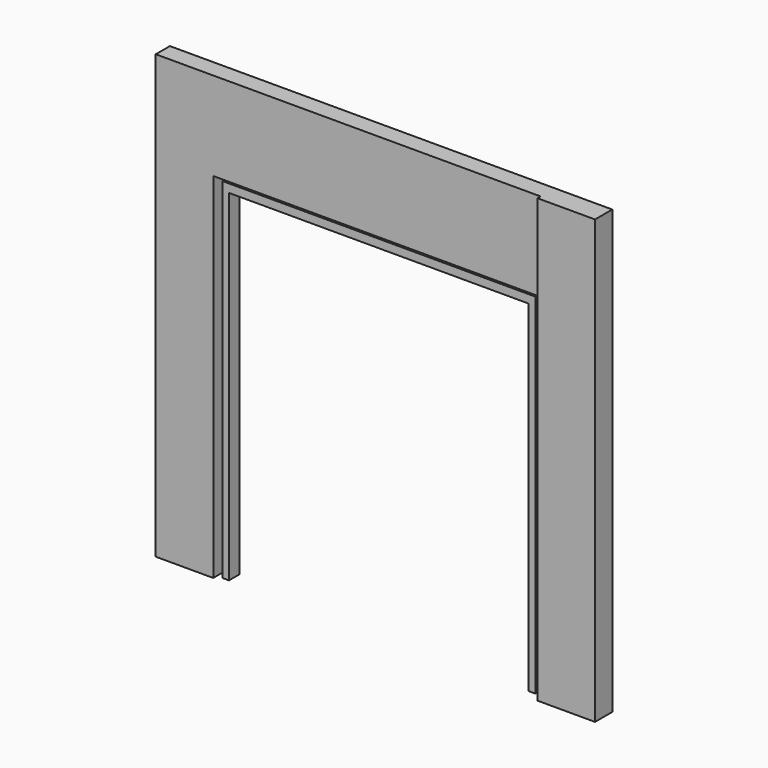
from build123d import *

# Parameters (mm, degrees)
F1_DEPTH = 101.6
F2_W     = 330.2
F2_H     = 2540
F3_DEPTH = 22.225
F5_DEPTH = 76.2


with BuildPart() as f1:
    # F0 (on Front) → F1 (new body)
    with BuildSketch(Plane.XZ):
        Polygon((0, 2540), (0, 0), (330.2, 0), (330.2, 2032), (2209.8, 2032), (2209.8, 0), (2540, 0), (2540, 2540), align=None)
    extrude(amount=F1_DEPTH)

    # F2 (on face) → F3 (join)
    with BuildSketch(Plane.XZ.offset(101.6)):
        with Locations((2374.9, 1270)):
            Rectangle(F2_W, F2_H)
    extrude(amount=F3_DEPTH)


with BuildPart() as f5:
    # F4 (on face) → F5 (new body)
    with BuildSketch(Plane(origin=(0, 0, 0), x_dir=(-1, 0, 0), z_dir=(0, 1, 0))):
        Polygon((-2159, 2006.6), (-2159, 0), (-2120.9, 0), (-2120.9, 1958.975), (-400.05, 1958.975), (-400.05, 0), (-361.95, 0), (-361.95, 2006.6), align=None)
    extrude(amount=-F5_DEPTH)


solid = Compound([f1.part, f5.part])
